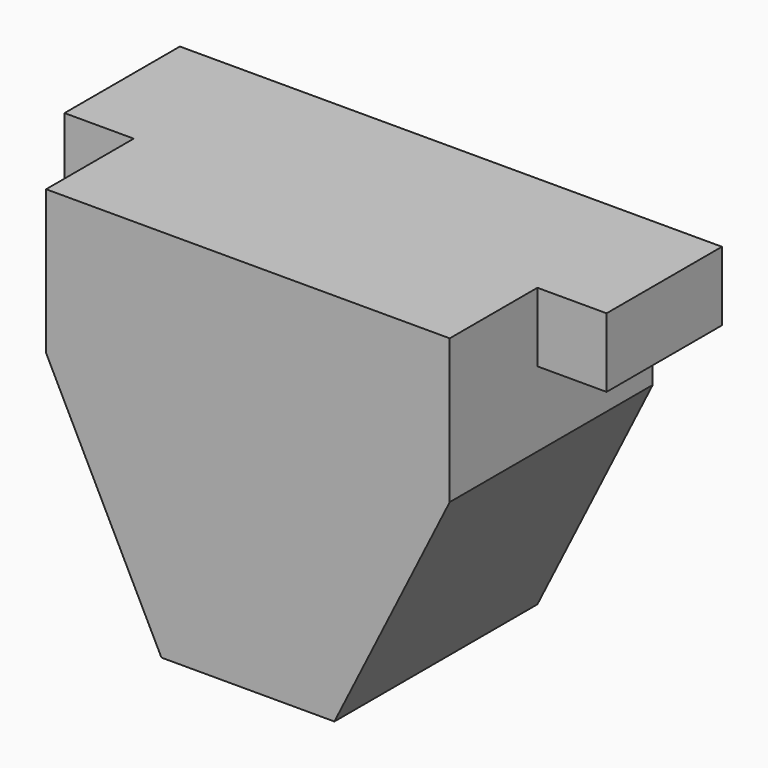
from build123d import *

# Parameters (mm, degrees)
F1_DEPTH = 440
F2_W     = 120
F2_H     = 250
F3_DEPTH = 120


with BuildPart() as f1:
    # F0 (on Front) → F1 (new body)
    with BuildSketch(Plane.XZ):
        Polygon((-150, -325), (150, -325), (350, 75), (350, 325), (-350, 325), (-350, 75), align=None)
    extrude(amount=F1_DEPTH)

    # F2 (on face) → F3 (join)
    with BuildSketch(Plane.XY.offset(325)):
        with Locations((410, -125)):
            Rectangle(F2_W, F2_H)
        with Locations((-410, -125)):
            Rectangle(F2_W, F2_H)
    extrude(amount=-F3_DEPTH)


solid = f1.part
